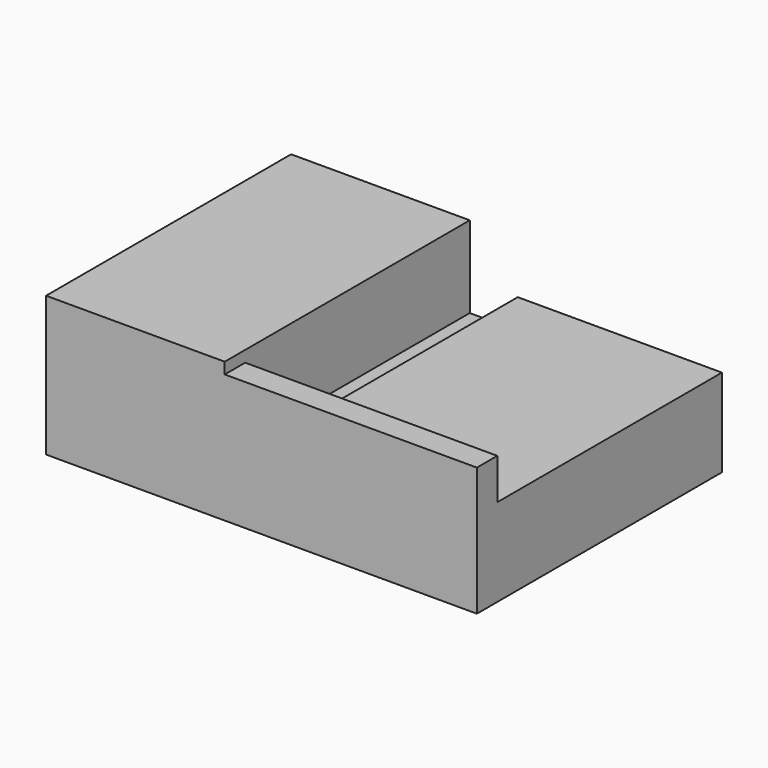
from build123d import *

# Parameters (mm, degrees)
F1_DEPTH = 30
F0_W     = 4.7
F0_H     = 2.9
F2_DEPTH = 5
F3_W     = 24.7
F3_H     = 2.5
F4_DEPTH = 4


with BuildPart() as f1:
    # F0 (on Front) → F1 (new body)
    with BuildSketch(Plane.XZ):
        Polygon((0, 13.7), (0, 0), (42.2, 0), (42.2, 8.6), (22.2, 8.6), (22.2, 5.7), (17.5, 5.7), (17.5, 8.6), (17.5, 13.7), align=None)
    extrude(amount=-F1_DEPTH)

    # F0 (on Front) → F2 (join)
    with BuildSketch(Plane.XZ):
        with Locations((19.85, 7.15)):
            Rectangle(F0_W, F0_H)
    extrude(amount=-F2_DEPTH)

    # F3 (on face) → F4 (join)
    with BuildSketch(Plane.XY.offset(8.6)):
        with Locations((29.85, 1.25)):
            Rectangle(F3_W, F3_H)
    extrude(amount=F4_DEPTH)


solid = f1.part
